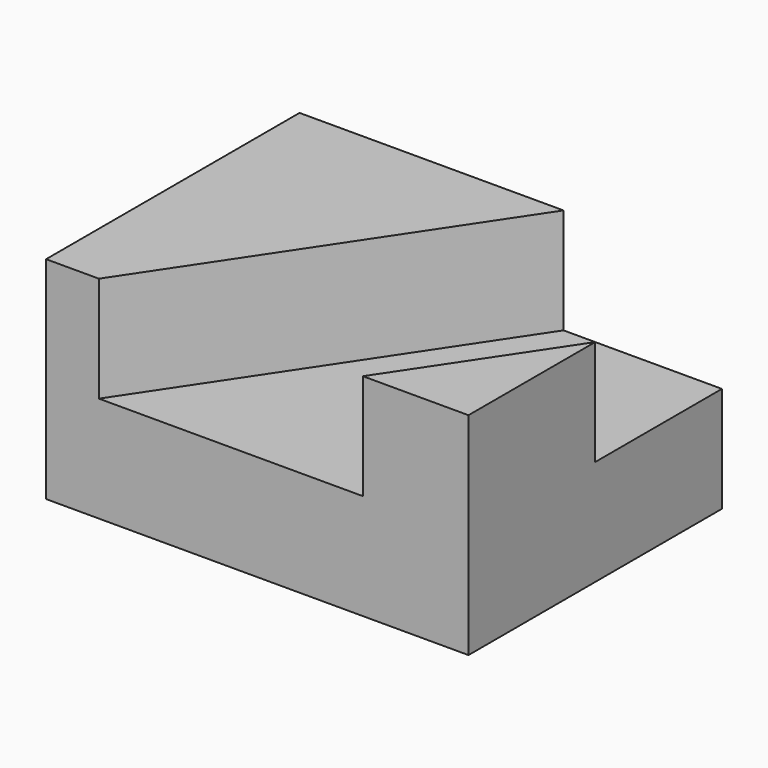
from build123d import *

# Parameters (mm, degrees)
F0_W     = 50.8
F0_H     = 38.1
F1_DEPTH = 25.4
F3_DEPTH = 12.7


with BuildPart() as f1:
    # F0 (on Top) → F1 (new body)
    with BuildSketch(Plane.XY):
        with Locations((-35.939417, 19.05)):
            Rectangle(F0_W, F0_H)
    extrude(amount=F1_DEPTH)

    # F2 (on face) → F3 (cut)
    with BuildSketch(Plane.XY.offset(25.4)):
        Polygon((-10.539417, 38.1), (-29.589417, 38.1), (-54.989417, 0), (-23.239417, 0), (-10.539417, 19.05), align=None)
    extrude(amount=-F3_DEPTH, mode=Mode.SUBTRACT)


solid = f1.part
